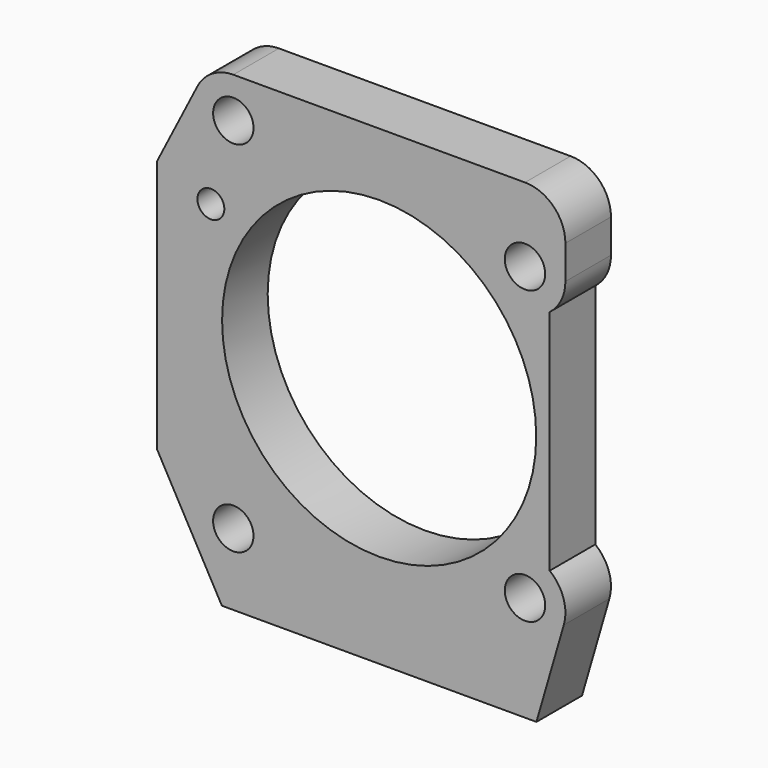
from build123d import *

# Parameters (mm, degrees)
F0_R     = 4.5
F0_R_2   = 3
F0_R_3   = 35
F1_DEPTH = 6.35


with BuildPart() as f1:
    # F0 (on Front) → F1 (new body, symmetric)
    with BuildSketch(Plane.XZ):
        with BuildLine():
            Line((32.5, 49), (-32.5, 49))
            ThreePointArc((-32.5, 49), (-37.198943, 47.675932), (-40.515282, 44.093318))
            Line((-40.515282, 44.093318), (-49.5, 26.5))
            Line((-49.5, 26.5), (-49.5, -30))
            Line((-49.5, -30), (-35.047059, -56))
            Line((-35.047059, -56), (35.047061, -56))
            Line((35.047061, -56), (41.142898, -35.010043))
            ThreePointArc((41.142898, -35.010043), (41.056204, -29.708696), (38, -25.376097))
            Line((38, -25.376097), (38, 25.376097))
            ThreePointArc((38, 25.376097), (40.577747, 28.531373), (41.5, 32.5))
            Line((41.5, 32.5), (41.5, 40))
            ThreePointArc((41.5, 40), (38.863961, 46.363961), (32.5, 49))
        make_face()
        with Locations((-32.5, -40)):
            Circle(F0_R, mode=Mode.SUBTRACT)
        with Locations((32.5, -32.5)):
            Circle(F0_R, mode=Mode.SUBTRACT)
        with Locations((-37.5, 22)):
            Circle(F0_R_2, mode=Mode.SUBTRACT)
        with Locations((-32.5, 40)):
            Circle(F0_R, mode=Mode.SUBTRACT)
        Circle(F0_R_3, mode=Mode.SUBTRACT)
        with Locations((32.5, 32.5)):
            Circle(F0_R, mode=Mode.SUBTRACT)
    extrude(amount=F1_DEPTH, both=True)


solid = f1.part
